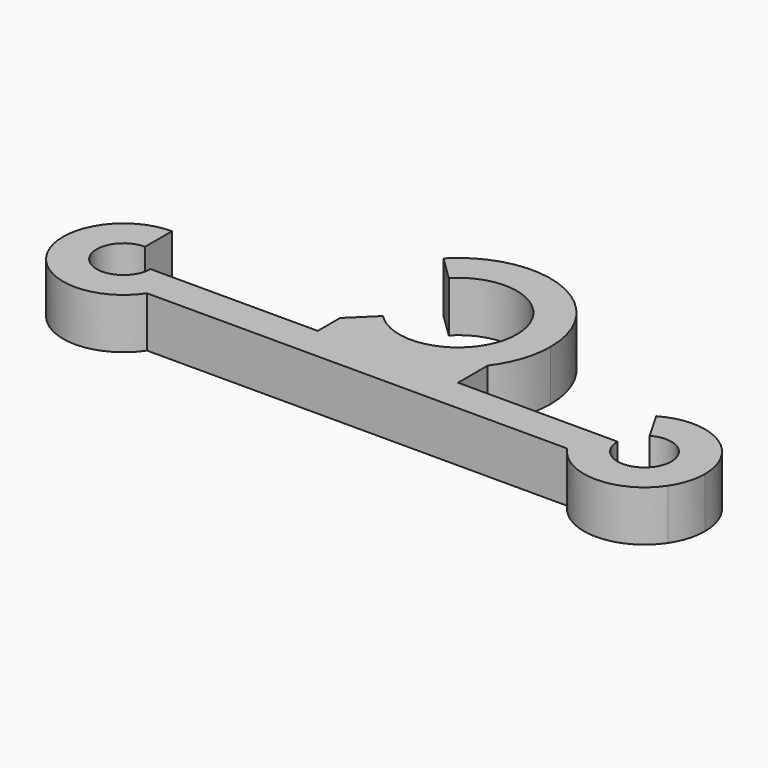
from build123d import *

# Parameters (mm, degrees)
F1_DEPTH = 3


with BuildPart() as f1:
    # F0 (on Top) → F1 (new body)
    with BuildSketch(Plane.XY):
        with BuildLine():
            Line((4.3997598665, -5.5), (0, -5.5))
            Line((0, -5.5), (-3.9389383459, -5.5))
            Line((-3.9389383459, -5.5), (-11.8838464236, -5.5))
            ThreePointArc((-11.8838464236, -5.5), (-12.0388519916, -6.5449944321), (-12.4905205142, -7.5))
            Line((-12.4905205142, -7.5), (12.4905205142, -7.5))
            ThreePointArc((12.4905205142, -7.5), (12.0388519916, -6.5449944321), (11.8838464236, -5.5))
            Line((11.8838464236, -5.5), (4.3997598665, -5.5))
        make_face()
        with BuildLine():
            ThreePointArc((-12.4905205142, -7.5), (-12.0388519916, -6.5449944321), (-11.8838464236, -5.5))
            Line((-11.8838464236, -5.5), (-13.8838464236, -5.5))
            ThreePointArc((-13.8838464236, -5.5), (-14.6838464236, -6.8856406461), (-16.2838464236, -6.8856406461))
            Line((-16.2838464236, -6.8856406461), (-16.638546962, -7.5))
            Line((-16.638546962, -7.5), (-12.4905205142, -7.5))
        make_face()
        with BuildLine():
            Line((-16.638546962, -7.5), (-16.2838464236, -6.8856406461))
            ThreePointArc((-16.2838464236, -6.8856406461), (-17.0293277457, -5.0858895278), (-15.4838464236, -3.9))
            Line((-15.4838464236, -3.9), (-15.4838464236, -1.9))
            ThreePointArc((-15.4838464236, -1.9), (-18.6587479969, -3.8029437252), (-18.4771723331, -7.5))
            Line((-18.4771723331, -7.5), (-16.638546962, -7.5))
        make_face()
        with BuildLine():
            Line((13.8838464236, -5.5), (11.8838464236, -5.5))
            ThreePointArc((11.8838464236, -5.5), (12.0388519916, -6.5449944321), (12.4905205142, -7.5))
            Line((12.4905205142, -7.5), (16.638546962, -7.5))
            Line((16.638546962, -7.5), (16.2838464236, -6.8856406461))
            ThreePointArc((16.2838464236, -6.8856406461), (14.6838464236, -6.8856406461), (13.8838464236, -5.5))
        make_face()
        with BuildLine():
            ThreePointArc((19.0838464236, -5.5), (17.2838464236, -2.3823085464), (13.6838464236, -2.3823085464))
            Line((13.6838464236, -2.3823085464), (14.6838464236, -4.1143593539))
            ThreePointArc((14.6838464236, -4.1143593539), (16.2838464236, -4.1143593539), (17.0838464236, -5.5))
            ThreePointArc((17.0838464236, -5.5), (16.8694870697, -6.3), (16.2838464236, -6.8856406461))
            Line((16.2838464236, -6.8856406461), (16.638546962, -7.5))
            Line((16.638546962, -7.5), (18.4771723331, -7.5))
            ThreePointArc((18.4771723331, -7.5), (18.9288408557, -6.5449944321), (19.0838464236, -5.5))
        make_face()
        with BuildLine():
            ThreePointArc((-2.5065971292, 2.4427383879), (1.3185048441, 3.2421512883), (3.5, 0))
            ThreePointArc((3.5, 0), (1.3185048441, -3.2421512883), (-2.5065971292, -2.4427383879))
            Line((-2.5065971292, -2.4427383879), (-3.9389383459, -3.8385888953))
            ThreePointArc((-3.9389383459, -3.8385888953), (-2.1374939855, -5.0676542366), (0, -5.5))
            ThreePointArc((0, -5.5), (2.4594957974, -4.9194390354), (4.3997598665, -3.3003201537))
            ThreePointArc((4.3997598665, -3.3003201537), (5.2176948582, -1.7394425449), (5.5, 0))
            ThreePointArc((5.5, 0), (2.0719361836, 5.0948091673), (-3.9389383459, 3.8385888953))
            Line((-3.9389383459, 3.8385888953), (-2.5065971292, 2.4427383879))
        make_face()
        with BuildLine():
            ThreePointArc((0, -5.5), (-2.1374939855, -5.0676542366), (-3.9389383459, -3.8385888953))
            Line((-3.9389383459, -3.8385888953), (-3.9389383459, -5.5))
            Line((-3.9389383459, -5.5), (0, -5.5))
        make_face()
        with BuildLine():
            ThreePointArc((4.3997598665, -3.3003201537), (2.4594957974, -4.9194390354), (0, -5.5))
            Line((0, -5.5), (4.3997598665, -5.5))
            Line((4.3997598665, -5.5), (4.3997598665, -3.3003201537))
        make_face()
        with BuildLine():
            Line((16.638546962, -7.5), (12.4905205142, -7.5))
            ThreePointArc((12.4905205142, -7.5), (15.4838464236, -9.1), (18.4771723331, -7.5))
            Line((18.4771723331, -7.5), (16.638546962, -7.5))
        make_face()
        with BuildLine():
            ThreePointArc((-18.4771723331, -7.5), (-15.4838464236, -9.1), (-12.4905205142, -7.5))
            Line((-12.4905205142, -7.5), (-16.638546962, -7.5))
            Line((-16.638546962, -7.5), (-18.4771723331, -7.5))
        make_face()
    extrude(amount=F1_DEPTH)


solid = f1.part
